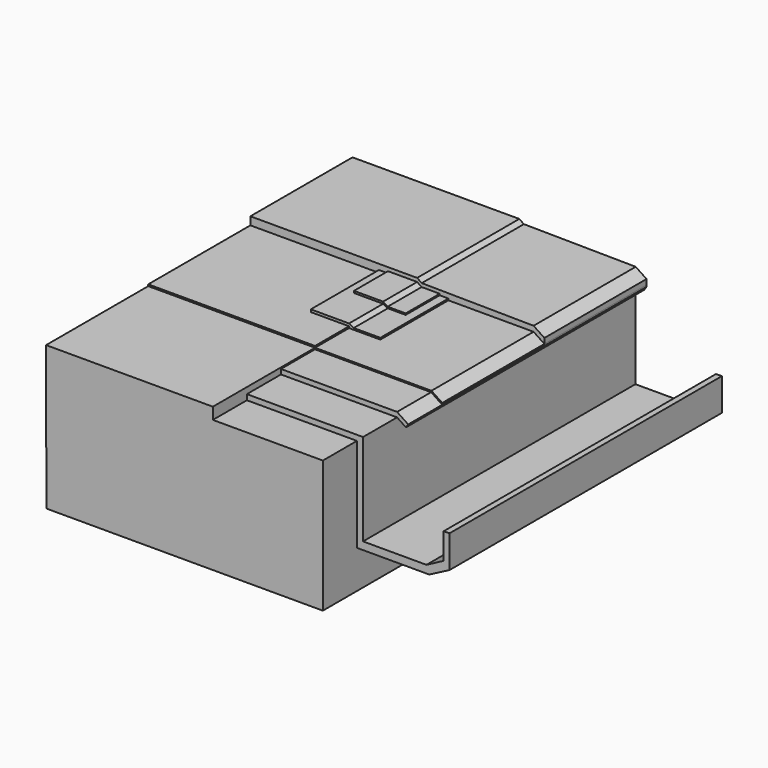
from build123d import *

# Parameters (mm, degrees)
F1_DEPTH = 90
F2_DEPTH = 80
F3_DEPTH = 70
F4_DEPTH = 60
F5_DEPTH = 60
F6_DEPTH = 50
F7_DEPTH = 40
F8_DEPTH = 30


with BuildPart() as f1:
    # F0 (on Front) → F1 (new body)
    with BuildSketch(Plane.XZ):
        Polygon((-35.8449, 19.013606), (-75.02988, 19.013606), (-74.966125, -14.775316), (-9.998596, -14.775316), (-9.998596, -5.839888), (-9.998596, 16.280899), (-35.8449, 16.280899), (-35.8449, 17.549563), (-35.8449, 18.687898), align=None)
    extrude(amount=F1_DEPTH)


with BuildPart() as f2:
    # F0 (on Front) → F2 (new body)
    with BuildSketch(Plane.XZ):
        Polygon((-8.556152, 17.549563), (-35.8449, 17.549563), (-35.8449, 16.280899), (-9.998596, 16.280899), (-9.998596, -5.839888), (6.990168, -5.839888), (11.768258, -3.36236), (11.768258, 4.247191), (10.348914, 4.199779), (10.348914, -1.918942), (6.350542, -4.039291), (-8.556152, -4.039291), align=None)
    extrude(amount=F2_DEPTH)


with BuildPart() as f3:
    # F0 (on Front) → F3 (new body)
    with BuildSketch(Plane.XZ):
        Polygon((-8.556152, 18.687898), (-35.8449, 18.687898), (-35.8449, 17.549563), (-8.556152, 17.549563), (-6.473645, 16.152017), (-5.946931, 16.936881), align=None)
    extrude(amount=F3_DEPTH)


with BuildPart() as f4:
    # F0 (on Front) → F4 (new body)
    with BuildSketch(Plane.XZ):
        Polygon((-75.02988, 19.39325), (-75.02988, 19.013606), (-35.8449, 19.013606), (-35.841163, 19.39325), (-44.831283, 19.39325), align=None)
    extrude(amount=F4_DEPTH)


with BuildPart() as f5:
    # F0 (on Front) → F5 (new body)
    with BuildSketch(Plane.XZ):
        Polygon((-28.500309, 19.013606), (-35.8449, 19.013606), (-35.8449, 18.687898), (-8.556152, 18.687898), (-5.946931, 16.936881), (-5.946931, 17.323582), (-8.48274, 19.013606), align=None)
    extrude(amount=F5_DEPTH)


with BuildPart() as f6:
    # F0 (on Front) → F6 (new body)
    with BuildSketch(Plane.XZ):
        Polygon((-35.841163, 19.39325), (-35.8449, 19.013606), (-28.500309, 19.013606), (-28.500309, 19.39325), (-30.537639, 19.39325), (-34.741651, 19.39325), (-35.8449, 19.975344), (-42.696938, 19.975344), (-44.831283, 19.975344), (-44.831283, 19.39325), align=None)
    extrude(amount=F6_DEPTH)


with BuildPart() as f7:
    # F0 (on Front) → F7 (new body)
    with BuildSketch(Plane.XZ):
        Polygon((-34.741651, 19.39325), (-30.537639, 19.39325), (-30.537639, 19.716972), (-34.78526, 19.716972), (-35.8449, 20.428084), (-42.696938, 20.428084), (-42.696938, 19.975344), (-35.8449, 19.975344), align=None)
    extrude(amount=F7_DEPTH)


with BuildPart() as f8:
    # F0 (on Front) → F8 (new body)
    with BuildSketch(Plane.XZ):
        Polygon((-75.02988, 21.268887), (-75.02988, 19.39325), (-44.831283, 19.39325), (-44.831283, 19.975344), (-42.696938, 19.975344), (-42.696938, 20.428084), (-35.8449, 20.428084), (-34.78526, 19.716972), (-30.537639, 19.716972), (-30.537639, 19.39325), (-28.500309, 19.39325), (-28.500309, 19.013606), (-8.48274, 19.013606), (-5.946931, 17.323582), (-5.946931, 18.56464), (-8.48274, 20.266391), (-34.762665, 20.542613), (-35.8449, 21.268887), align=None)
    extrude(amount=F8_DEPTH)


solid = Compound([f1.part, f2.part, f3.part, f4.part, f5.part, f6.part, f7.part, f8.part])
